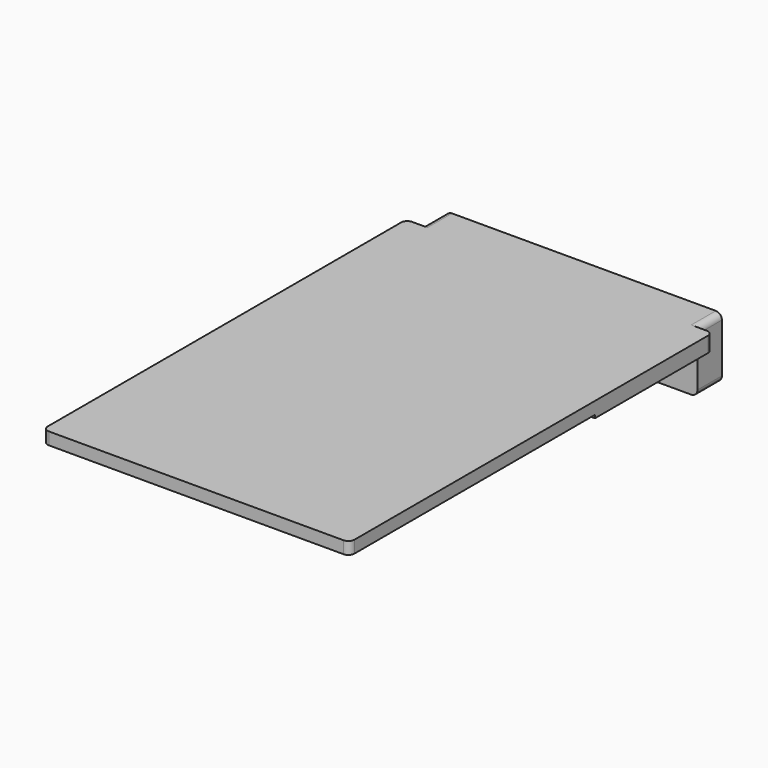
from build123d import *

# Parameters (mm, degrees)
BOX003_W               = 10
BOX003_H               = 10
BOX003_DEPTH           = 10
BOX004_W               = 10
BOX004_H               = 10
BOX004_DEPTH           = 10
CYLINDER002_R          = 5
CYLINDER002_DEPTH      = 11
CYLINDER003_R          = 5
CYLINDER003_DEPTH      = 11
BOX001_W               = 100
BOX001_H               = 48
BOX001_DEPTH           = 5
CYLINDER001_R          = 1.75
CYLINDER001_DEPTH      = 10
CYLINDER001_ROLL_ANGLE = 90
CYLINDER_R             = 1.75
CYLINDER_DEPTH         = 10
CYLINDER_ROLL_ANGLE    = 90
PAD001_DEPTH           = 2.8
PAD_DEPTH              = 2.8
BOX002_W               = 90
BOX002_H               = 10
BOX002_DEPTH           = 20
BOX_W                  = 100
BOX_H                  = 100
BOX_DEPTH              = 4
FILLET_R               = 2


with BuildPart() as hood_front1:
    # Box003 → Box003 (new body)
    with BuildSketch(Plane(origin=(25, 90, -10), x_dir=(1, 0, 0), z_dir=(0, 0, 1))):
        with Locations((5, 5)):
            Rectangle(BOX003_W, BOX003_H)
    extrude(amount=BOX003_DEPTH)


with BuildPart() as hood_front2:
    # Box004 → Box004 (new body)
    with BuildSketch(Plane(origin=(65, 90, -10), x_dir=(1, 0, 0), z_dir=(0, 0, 1))):
        with Locations((5, 5)):
            Rectangle(BOX004_W, BOX004_H)
    extrude(amount=BOX004_DEPTH)


with BuildPart() as hood_front3:
    # Cylinder002 → Cylinder002 (new body)
    with BuildSketch(Plane(origin=(30, 95, -10), x_dir=(1, 0, 0), z_dir=(0, 0, 1))):
        Circle(CYLINDER002_R)
    extrude(amount=CYLINDER002_DEPTH)


with BuildPart() as hood_front4:
    # Cylinder003 → Cylinder003 (new body)
    with BuildSketch(Plane(origin=(70, 95, -10), x_dir=(1, 0, 0), z_dir=(0, 0, 1))):
        Circle(CYLINDER003_R)
    extrude(amount=CYLINDER003_DEPTH)


with BuildPart() as hood2:
    # Box001 → Box001 (new body)
    with BuildSketch(Plane(origin=(0, 100, 0), x_dir=(1, 0, 0), z_dir=(0, 0, 1))):
        with Locations((50, 24)):
            Rectangle(BOX001_W, BOX001_H)
    extrude(amount=BOX001_DEPTH)


with BuildPart() as screw2:
    # Cylinder001 → Cylinder001 (new body)
    with BuildSketch(Plane.XY):
        Circle(CYLINDER001_R)
    extrude(amount=CYLINDER001_DEPTH)


with BuildPart() as screw2_1:
    # Cylinder001 roll: moved
    add(screw2.part.rotate(Axis((0, 0, 0), (1, 0, 0)), CYLINDER001_ROLL_ANGLE))


with BuildPart() as screw2_2:
    # Cylinder001 placement: moved
    add(screw2_1.part.moved(Location((73, 158, -7))))


with BuildPart() as fusion001:
    # Cylinder → Cylinder (new body)
    with BuildSketch(Plane.XY):
        Circle(CYLINDER_R)
    extrude(amount=CYLINDER_DEPTH)


with BuildPart() as fusion001_1:
    # Cylinder roll: moved
    add(fusion001.part.rotate(Axis((0, 0, 0), (1, 0, 0)), CYLINDER_ROLL_ANGLE))


with BuildPart() as fusion001_2:
    # Cylinder placement: moved
    add(fusion001_1.part.moved(Location((28, 158, -7))))

    # Fusion001: union Screw2
    add(screw2_2.part)


with BuildPart() as nut2:
    # Sketch001 → Pad001 (new body)
    with BuildSketch(Plane(origin=(50, 148, -15), x_dir=(1, 0, 0), z_dir=(0, -1, 0))):
        Polygon((24.714102, 5), (26.446152, 8), (24.714102, 11), (21.25, 11), (19.517949, 8), (21.25, 5), align=None)
    extrude(amount=-PAD001_DEPTH)


with BuildPart() as fusion:
    # Sketch → Pad (new body)
    with BuildSketch(Plane(origin=(5, 148, -15), x_dir=(1, 0, 0), z_dir=(0, -1, 0))):
        Polygon((24.714102, 5), (26.446152, 8), (24.714102, 11), (21.25, 11), (19.517949, 8), (21.25, 5), align=None)
    extrude(amount=-PAD_DEPTH)

    # Fusion: union Nut2
    add(nut2.part)


with BuildPart() as cut001:
    # Box002 → Box002 (new body)
    with BuildSketch(Plane(origin=(5, 148, -15), x_dir=(1, 0, 0), z_dir=(0, 0, 1))):
        with Locations((45, 5)):
            Rectangle(BOX002_W, BOX002_H)
    extrude(amount=BOX002_DEPTH)

    # Cut: cut Fusion
    add(fusion.part, mode=Mode.SUBTRACT)

    # Cut001: cut Fusion001
    add(fusion001_2.part, mode=Mode.SUBTRACT)


with BuildPart() as fillet_body:
    # Box → Box (new body)
    with BuildSketch(Plane.XY.offset(1)):
        with Locations((50, 50)):
            Rectangle(BOX_W, BOX_H)
    extrude(amount=BOX_DEPTH)

    # Fusion002: union Hood2, Cut001
    add(hood2.part)
    add(cut001.part)

    # Fillet
    fillet_edges = [fillet_body.edges().sort_by_distance(p)[0] for p in [
        (100, 0, 3),
        (0, 0, 3),
        (100, 148, 2.5),
        (0, 148, 2.5),
        (5, 153, 5),
        (95, 153, 5),
        (95, 153, -15),
        (5, 153, -15),
    ]]
    fillet(fillet_edges, radius=FILLET_R)


solid = Compound([hood_front1.part, hood_front2.part, hood_front3.part, hood_front4.part, fillet_body.part])
